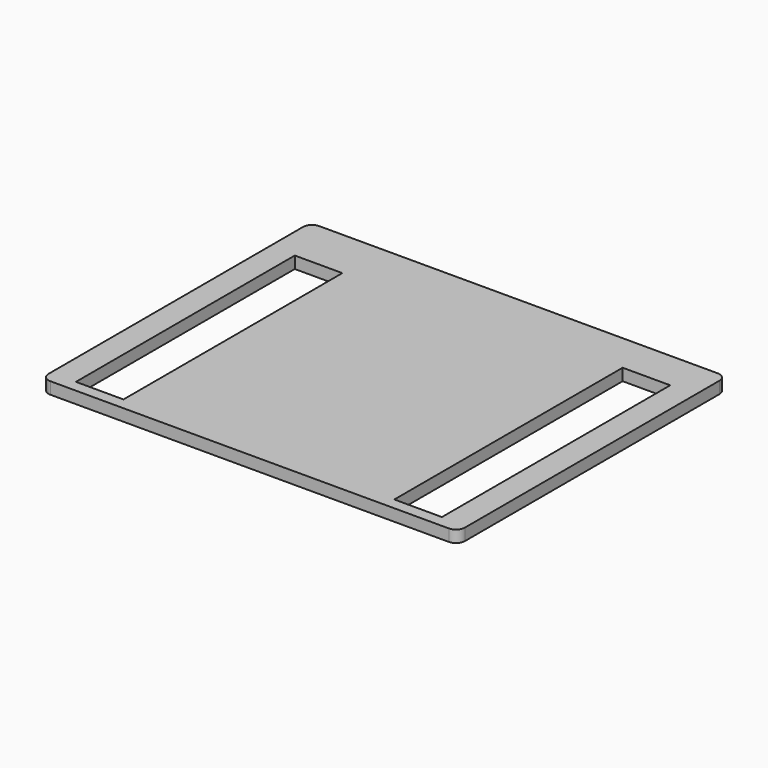
from build123d import *

# Parameters (mm, degrees)
F1_DEPTH = 25.4


with BuildPart() as f1:
    # F0 (on Top) → F1 (new body)
    with BuildSketch(Plane.XY):
        with BuildLine():
            ThreePointArc((-457.612752, -74.898186), (-452.033136, -88.36857), (-438.562752, -93.948186))
            Line((-438.562752, -93.948186), (412.337248, -93.948186))
            ThreePointArc((412.337248, -93.948186), (425.807632, -88.36857), (431.387248, -74.898186))
            Line((431.387248, -74.898186), (431.387248, 458.501814))
            Line((431.387248, 458.501814), (431.387248, 604.495745))
            ThreePointArc((431.387248, 604.495745), (425.807632, 617.966129), (412.337248, 623.545745))
            Line((412.337248, 623.545745), (-438.562752, 623.545745))
            ThreePointArc((-438.562752, 623.545745), (-452.033136, 617.966129), (-457.612752, 604.495745))
            Line((-457.612752, 604.495745), (-457.612752, 458.501814))
            Line((-457.612752, 458.501814), (-457.612752, -74.898186))
        make_face()
        Polygon((-340.391752, -69.109058), (-403.891752, -69.109058), (-403.891752, 515.090942), (-302.291752, 515.090942), (-302.291752, -69.109058), align=None, mode=Mode.SUBTRACT)
        Polygon((377.669705, -69.109058), (314.169705, -69.109058), (276.069705, -69.109058), (276.069705, 438.663239), (276.069705, 540.263239), (377.669705, 540.263239), (377.669705, 515.090942), (377.669705, 483.52605), align=None, mode=Mode.SUBTRACT)
    extrude(amount=F1_DEPTH)


solid = f1.part
